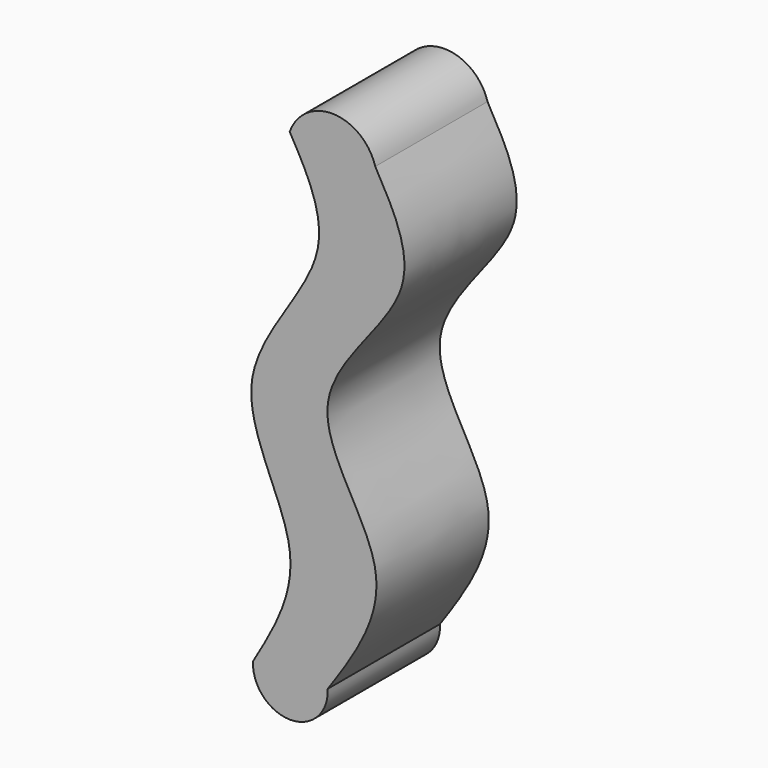
from build123d import *

# Parameters (mm, degrees)
F1_DEPTH = 19.05


with BuildPart() as f1:
    # F0 (on Front) → F1 (new body)
    with BuildSketch(Plane.XZ):
        with BuildLine():
            add(Edge.make_bspline(
                [(7.9272594303, 64.5241960883), (10.4380763235, 60.0922360727), (15.9468361621, 50.3684671249), (-5.2760462211, 34.3184157992), (12.7432820259, 16.3610939057), (5.1951472245, 5.4016620068), (1.4748382382, 0)],
                knots=[0, 0, 0, 0, 0.2232887133, 0.4898978893, 0.7485819323, 1, 1, 1, 1], degree=3))
            ThreePointArc((7.9272594303, 64.5241960883), (2.2545940852, 68.9457262658), (-3.687096294, 64.8929029703))
            add(Edge.make_bspline(
                [(-3.687096294, 64.8929029703), (-1.2588133972, 60.6007335226), (4.1279893893, 51.0791615625), (-14.7057011704, 33.5339096954), (0.1273473252, 14.977894897), (-5.8264515747, 4.8351379811), (-8.6646778509, 0)],
                knots=[0, 0, 0, 0, 0.2241824014, 0.4973170078, 0.7603667673, 1, 1, 1, 1], degree=3))
            ThreePointArc((-8.6646778509, 0), (-3.5949198063, -5.3471276084), (1.4748382382, 0))
        make_face()
    extrude(amount=F1_DEPTH)


solid = f1.part
